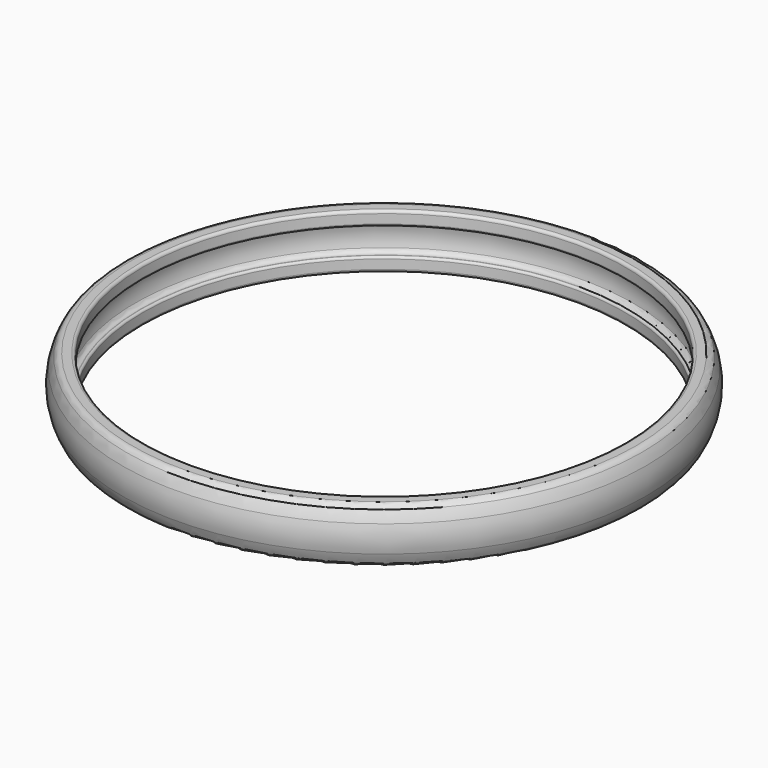
from build123d import *


with BuildPart() as f2:
    # F0 (on Front) → F2 (revolve)
    with BuildSketch(Plane.XZ):
        with BuildLine():
            Line((35.9397017429, 3.9), (34.816742668, 3.9))
            ThreePointArc((34.816742668, 3.9), (34.5338999555, 3.7828427125), (34.416742668, 3.5))
            Line((34.416742668, 3.5), (34.416742668, 2.2))
            ThreePointArc((34.416742668, 2.2), (34.5046106337, 1.9878679656), (34.716742668, 1.9))
            Line((34.716742668, 1.9), (34.7785378574, 1.9))
            Line((34.7785378574, 1.9), (37.4242934533, 1.9))
            ThreePointArc((37.4242934533, 1.9), (37.1623308087, 2.6591672242), (36.815138142, 3.3833333333))
            ThreePointArc((36.815138142, 3.3833333333), (36.4479667657, 3.7612007122), (35.9397017429, 3.9))
        make_face()
        with BuildLine():
            ThreePointArc((37.4242934533, -1.9), (37.6870833483, 0), (37.4242934533, 1.9))
            Line((37.4242934533, 1.9), (34.7785378574, 1.9))
            ThreePointArc((34.7785378574, 1.9), (35.2314694845, 1.7477900477), (35.5005592413, 1.3529411765))
            ThreePointArc((35.5005592413, 1.3529411765), (35.6870833483, 0), (35.5005592413, -1.3529411765))
            ThreePointArc((35.5005592413, -1.3529411765), (35.2314694845, -1.7477900477), (34.7785378574, -1.9))
            Line((34.7785378574, -1.9), (37.4242934533, -1.9))
        make_face()
        with BuildLine():
            ThreePointArc((36.815138142, -3.3833333333), (37.1623308087, -2.6591672242), (37.4242934533, -1.9))
            Line((37.4242934533, -1.9), (34.7785378574, -1.9))
            Line((34.7785378574, -1.9), (34.716742668, -1.9))
            ThreePointArc((34.716742668, -1.9), (34.5046106337, -1.9878679656), (34.416742668, -2.2))
            Line((34.416742668, -2.2), (34.416742668, -3.5))
            ThreePointArc((34.416742668, -3.5), (34.5338999555, -3.7828427125), (34.816742668, -3.9))
            Line((34.816742668, -3.9), (35.9397017429, -3.9))
            ThreePointArc((35.9397017429, -3.9), (36.4479667657, -3.7612007122), (36.815138142, -3.3833333333))
        make_face()
    revolve(axis=Axis((0, 0, 1.4160797), (0, 0, -1)))


solid = f2.part
